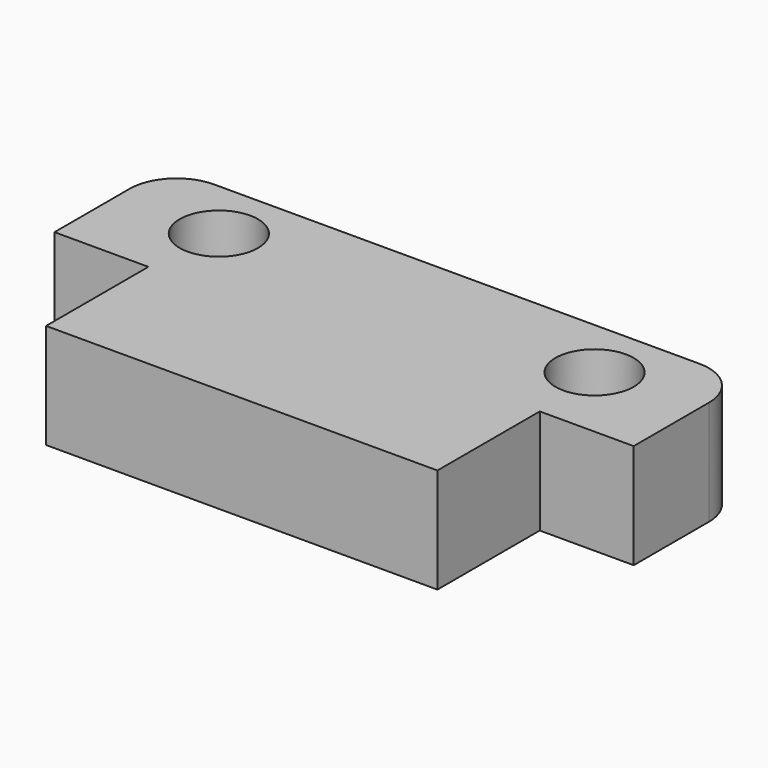
from build123d import *

# Parameters (mm, degrees)
SKETCH_R    = 2.5
PAD_DEPTH   = 6.7
FILLET_R    = 3
FILLET001_R = 3


with BuildPart() as part:
    # Sketch → Pad (new body)
    with BuildSketch(Plane.XY):
        Polygon((0, 0), (6, 0), (6, -8.17137), (31, -8.17137), (31, 0), (37, 0), (37, 9), (0, 9), align=None)
        with Locations((6.5, 5)):
            Circle(SKETCH_R, mode=Mode.SUBTRACT)
        with Locations((30.5, 5)):
            Circle(SKETCH_R, mode=Mode.SUBTRACT)
    extrude(amount=PAD_DEPTH)

    # Fillet
    fillet_edges = [part.edges().sort_by_distance(p)[0] for p in [
        (37, 9, 3.35),
    ]]
    fillet(fillet_edges, radius=FILLET_R)

    # Fillet001
    fillet001_edges = [part.edges().sort_by_distance(p)[0] for p in [
        (0, 9, 3.35),
    ]]
    fillet(fillet001_edges, radius=FILLET001_R)


solid = part.part
